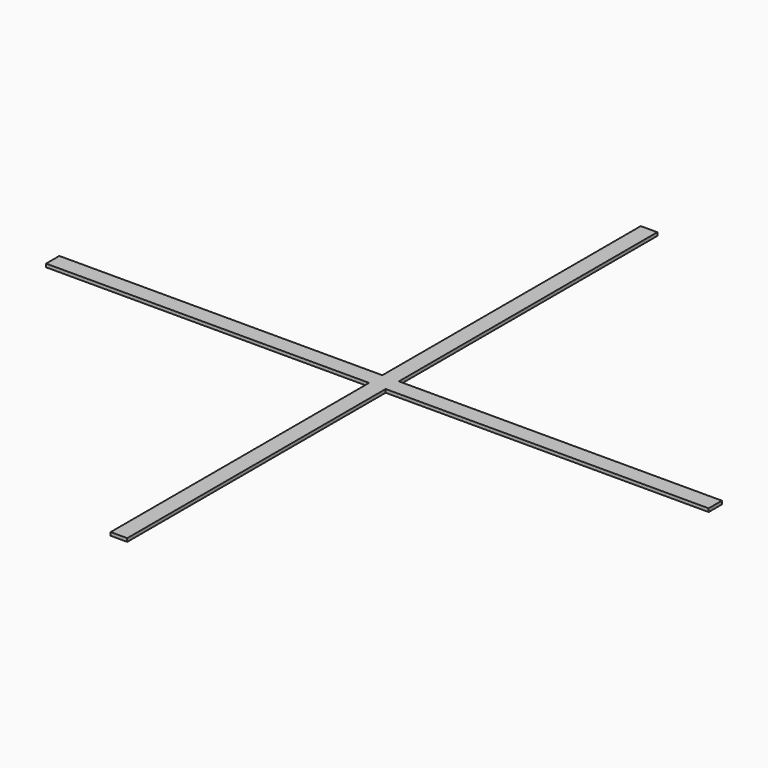
from build123d import *

# Parameters (mm, degrees)
F0_W     = 97.5
F0_H     = 5
F0_W_2   = 5
F0_H_2   = 97.5
F1_DEPTH = 1


with BuildPart() as f1:
    # F0 (on Top) → F1 (new body)
    with BuildSketch(Plane.XY):
        with Locations((-51.25, 0)):
            Rectangle(F0_W, F0_H)
        with Locations((0, 51.25)):
            Rectangle(F0_W_2, F0_H_2)
        Rectangle(F0_W_2, F0_H)
        with Locations((51.25, 0)):
            Rectangle(F0_W, F0_H)
        with Locations((0, -51.25)):
            Rectangle(F0_W_2, F0_H_2)
    extrude(amount=F1_DEPTH)


solid = f1.part
